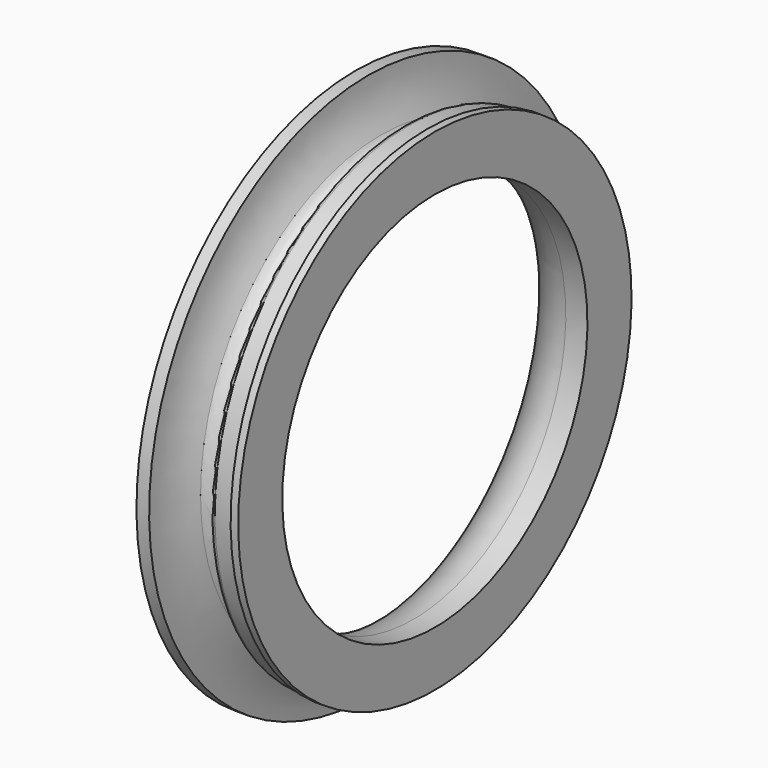
from build123d import *


with BuildPart() as f1:
    # F0 (on Front) → F1 (revolve)
    with BuildSketch(Plane.XZ):
        with BuildLine():
            Line((15.875, 342.9), (0, 342.9))
            Line((0, 342.9), (0, 328.6125))
            ThreePointArc((0, 328.6125), (1.092488, 311.101104), (4.353008, 293.86128))
            ThreePointArc((4.353008, 293.86128), (5.038673, 291.27063), (5.773488, 288.69349))
            ThreePointArc((5.773488, 288.69349), (30.805227, 252.737075), (72.380527, 238.91875))
            Line((72.380527, 238.91875), (99.4664, 238.91875))
            Line((99.4664, 238.91875), (99.4664, 307.9369))
            Line((99.4664, 307.9369), (89.9414, 307.9369))
            Line((89.9414, 307.9369), (89.9414, 306.3875))
            ThreePointArc((89.9414, 306.3875), (89.476432, 305.264968), (88.3539, 304.8))
            Line((88.3539, 304.8), (67.7164, 304.8))
            ThreePointArc((67.7164, 304.8), (63.226272, 302.940128), (61.3664, 298.45))
            Line((61.3664, 298.45), (61.3664, 289.781537))
            ThreePointArc((61.3664, 289.781537), (49.467276, 274.412476), (31.607907, 282.083209))
            ThreePointArc((31.607907, 282.083209), (19.871918, 311.490581), (15.875, 342.9))
        make_face()
    revolve(axis=Axis((30.470669, 0, 0), (1, 0, 0)))


solid = f1.part
